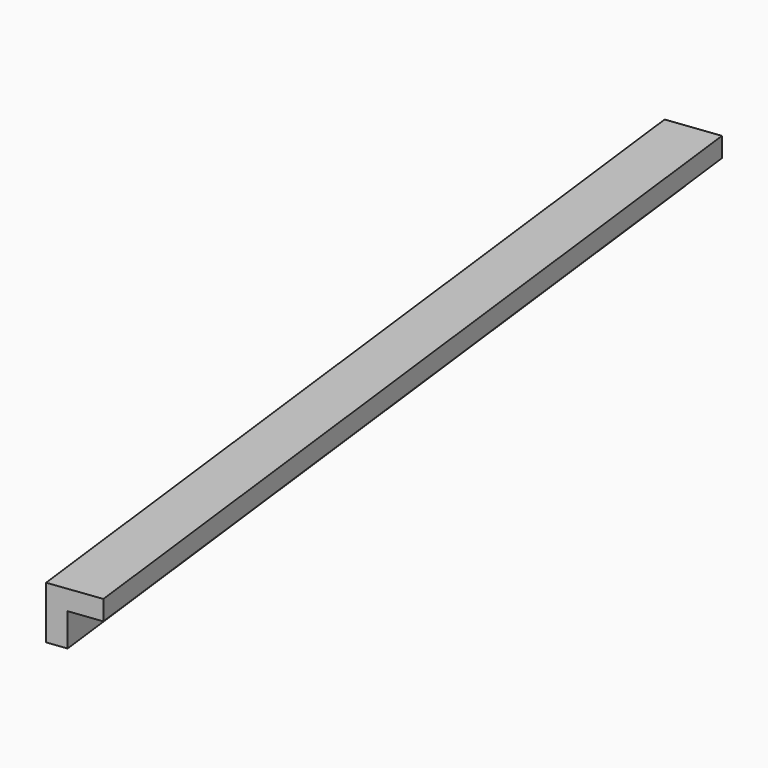
from build123d import *

# Parameters (mm, degrees)
BOX177_W               = 0.8
BOX177_H               = 14
BOX177_DEPTH           = 0.8
BOX178_W               = 0.8
BOX178_H               = 14
BOX178_DEPTH           = 0.8
CUT092_PLACEMENT_ANGLE = 187


with BuildPart() as cubo177:
    # Box177 → Box177 (new body)
    with BuildSketch(Plane.XY):
        with Locations((0.4, 7)):
            Rectangle(BOX177_W, BOX177_H)
    extrude(amount=BOX177_DEPTH)


with BuildPart() as obj1:
    # Box178 → Box178 (new body)
    with BuildSketch(Plane(origin=(0.3, 0, 0.3), x_dir=(1, 0, 0), z_dir=(0, 0, 1))):
        with Locations((0.4, 7)):
            Rectangle(BOX178_W, BOX178_H)
    extrude(amount=BOX178_DEPTH)

    # Cut092: cut Cubo177
    add(cubo177.part, mode=Mode.SUBTRACT)


with BuildPart() as obj1_1:
    # Cut092 placement: moved
    add(obj1.part.moved(Location((-162.6, 166.9, -1.45))).rotate(Axis((-162.6, 166.9, -1.45), (0, 0, 1)), CUT092_PLACEMENT_ANGLE))


solid = obj1_1.part
